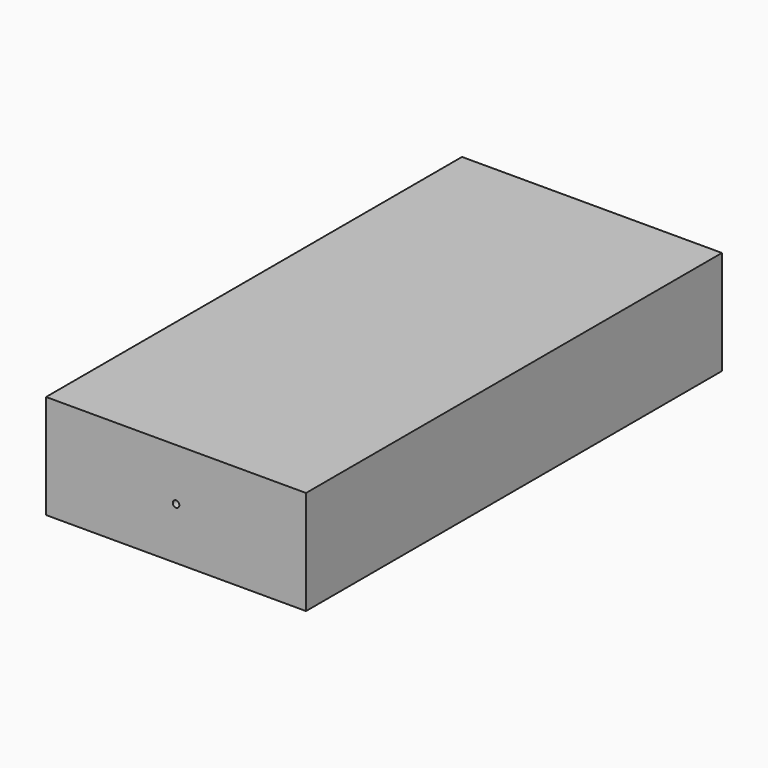
from build123d import *

# Parameters (mm, degrees)
F0_W          = 20
F0_H          = 40
F1_DEPTH      = 4
F1_DEPTH_BACK = 4
F3_R          = 0.25
F6_R          = 0.25
F10_D         = 3
F10_DEPTH     = 11
F10_TIP       = 0.9012909285
F11_D         = 3
F11_DEPTH     = 11
F11_TIP       = 0.9012909285


with BuildPart() as f1:
    # F0 (on Top) → F1 (new body, two sides)
    with BuildSketch(Plane.XY) as f1_sk:
        Rectangle(F0_W, F0_H)
    extrude(amount=F1_DEPTH)
    extrude(f1_sk.sketch, amount=-F1_DEPTH_BACK)

    # F4: sweep along a path in F2
    with BuildLine(Plane.XY) as f4_path:
        Line((0, -20), (0, -5))
        Line((0, -5), (5, 2))
        Line((5, 2), (5, 20))
    # F3 (on face) → F4 (sweep, cut)
    with BuildSketch(Plane(origin=(0, 20, 0), x_dir=(-1, 0, 0), z_dir=(0, 1, 0))):
        with Locations((-5, 0)):
            Circle(F3_R)
    sweep(path=f4_path.line, transition=Transition.RIGHT, mode=Mode.SUBTRACT)

    # F7: sweep along a path in F5
    with BuildLine(Plane.XY) as f7_path:
        Line((0, -5), (-5, 2))
        Line((-5, 2), (-5, 20))
    # F6 (on face) → F7 (sweep, cut)
    with BuildSketch(Plane(origin=(0, 20, 0), x_dir=(-1, 0, 0), z_dir=(0, 1, 0))):
        with Locations((5, 0)):
            Circle(F6_R)
    sweep(path=f7_path.line, transition=Transition.RIGHT, mode=Mode.SUBTRACT)

    # F10
    with Locations(Plane(origin=(0, 20, 0), x_dir=(-1, 0, 0), z_dir=(0, 1, 0))):
        with Locations((-5, 0)):
            Hole(F10_D / 2, depth=F10_DEPTH)
            with Locations((0, 0, -(F10_DEPTH + F10_TIP / 2))):  # 118° drill point
                Cone(0, F10_D / 2, F10_TIP, mode=Mode.SUBTRACT)

    # F11
    with Locations(Plane(origin=(0, 20, 0), x_dir=(-1, 0, 0), z_dir=(0, 1, 0))):
        with Locations((5, 0)):
            Hole(F11_D / 2, depth=F11_DEPTH)
            with Locations((0, 0, -(F11_DEPTH + F11_TIP / 2))):  # 118° drill point
                Cone(0, F11_D / 2, F11_TIP, mode=Mode.SUBTRACT)


solid = f1.part
